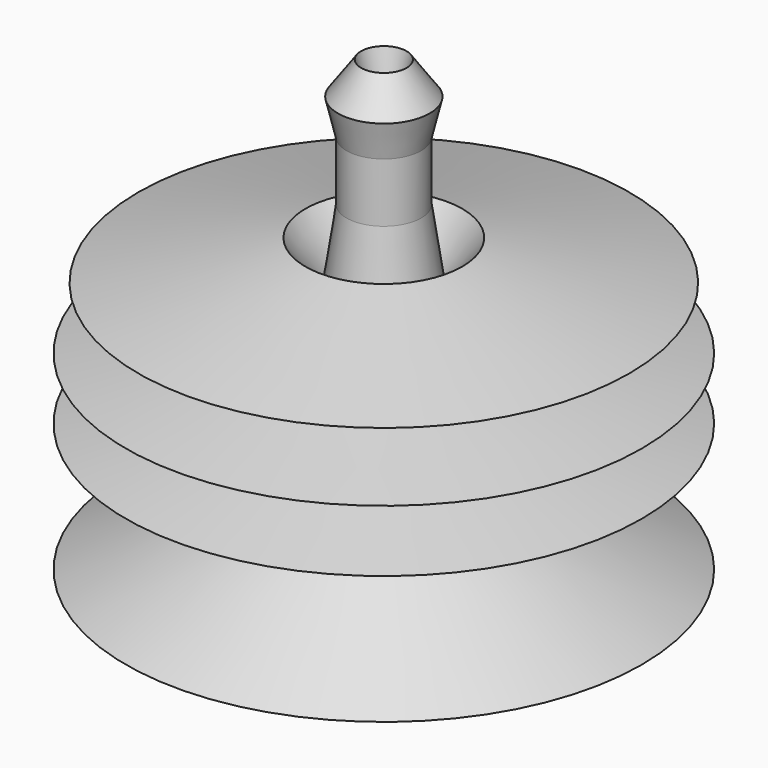
from build123d import *


with BuildPart() as f1:
    # F0 (on Front) → F1 (revolve)
    with BuildSketch(Plane.XZ):
        Polygon((0, 57.212673), (0, -66.940643), (72.359651, -60.565341), (21.994783, -34.74538), (72.359651, -24.544902), (16.57578, -12.113068), (72.359651, -7.198188), (21.994783, 3.18765), (68.853222, 10.200478), (21.994783, 21.357251), (13.388126, 10.200478), (10.483704, 29.607295), (10.483704, 46.220917), (12.862667, 56.21256), (6.375296, 65.346815), (4.200473, 56.21256), align=None)
    revolve(axis=Axis((0, 0, -4.863985), (0, 0, -1)))


solid = f1.part
